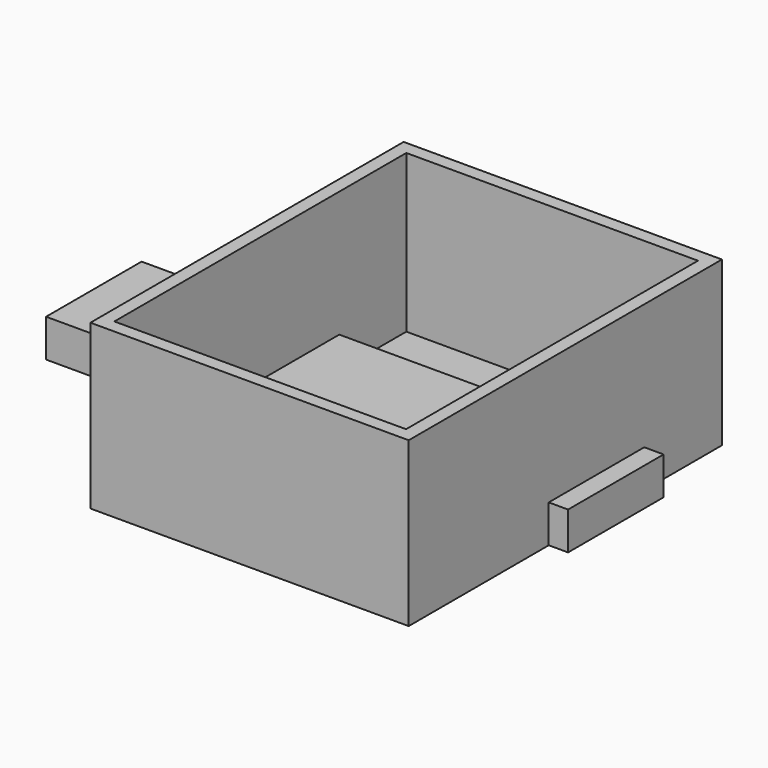
from build123d import *

# Parameters (mm, degrees)
F0_W     = 101.152622
F0_H     = 124.431356
F1_DEPTH = 2
F2_W     = 101.152622
F2_H     = 124.431356
F2_W_2   = 92.701234
F2_H_2   = 115.979962
F3_DEPTH = 50
F4_W     = 165.897682
F4_H     = 37.940726
F5_DEPTH = 12


with BuildPart() as f1:
    # F0 (on Top) → F1 (new body)
    with BuildSketch(Plane.XY):
        Rectangle(F0_W, F0_H)
    extrude(amount=F1_DEPTH)

    # F2 (on face) → F3 (join)
    with BuildSketch(Plane.XY.offset(2)):
        Rectangle(F2_W, F2_H)
        Rectangle(F2_W_2, F2_H_2, mode=Mode.SUBTRACT)
    extrude(amount=F3_DEPTH)

    # F4 (on Top) → F5 (join)
    with BuildSketch(Plane.XY):
        with Locations((-26.223734, 12.385411)):
            Rectangle(F4_W, F4_H)
    extrude(amount=F5_DEPTH)


solid = f1.part
